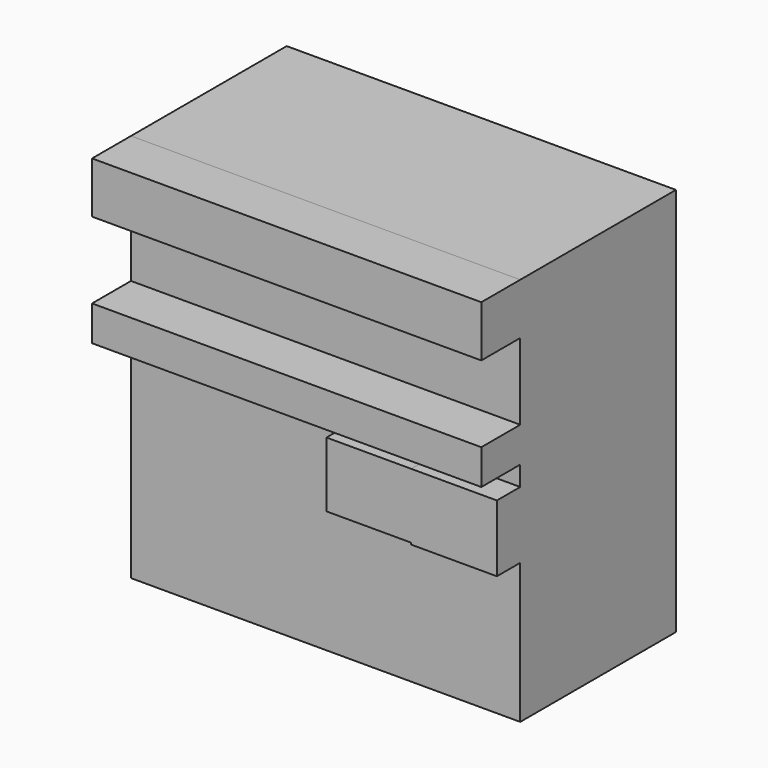
from build123d import *

# Parameters (mm, degrees)
F0_W     = 101.6
F0_H     = 101.6
F1_DEPTH = 50.8
F2_W     = 101.6
F2_H     = 9.150512
F2_H_2   = 13.380947
F3_DEPTH = 12.7
F4_W     = 22.110065
F4_H     = 16.971257
F5_DEPTH = 7.62


with BuildPart() as f1:
    # F0 (on Front) → F1 (new body)
    with BuildSketch(Plane.XZ):
        with Locations((-25.165238, -3.183233)):
            Rectangle(F0_W, F0_H)
    extrude(amount=F1_DEPTH)

    # F2 (on face) → F3 (join)
    with BuildSketch(Plane.XZ.offset(50.8)):
        with Locations((-25.165238, 9.725523)):
            Rectangle(F2_W, F2_H)
        with Locations((-25.165238, 40.926293)):
            Rectangle(F2_W, F2_H_2)
    extrude(amount=F3_DEPTH)

    # F4 (on face) → F5 (join)
    with BuildSketch(Plane.XZ.offset(50.8)):
        with Locations((-7.793045, -8.485628)):
            Rectangle(F4_W, F4_H)
        Polygon((25.634762, 0), (3.261987, 0), (3.261987, -16.971257), (3.261987, -17.422482), (25.634762, -17.422482), align=None)
    extrude(amount=F5_DEPTH)


solid = f1.part
